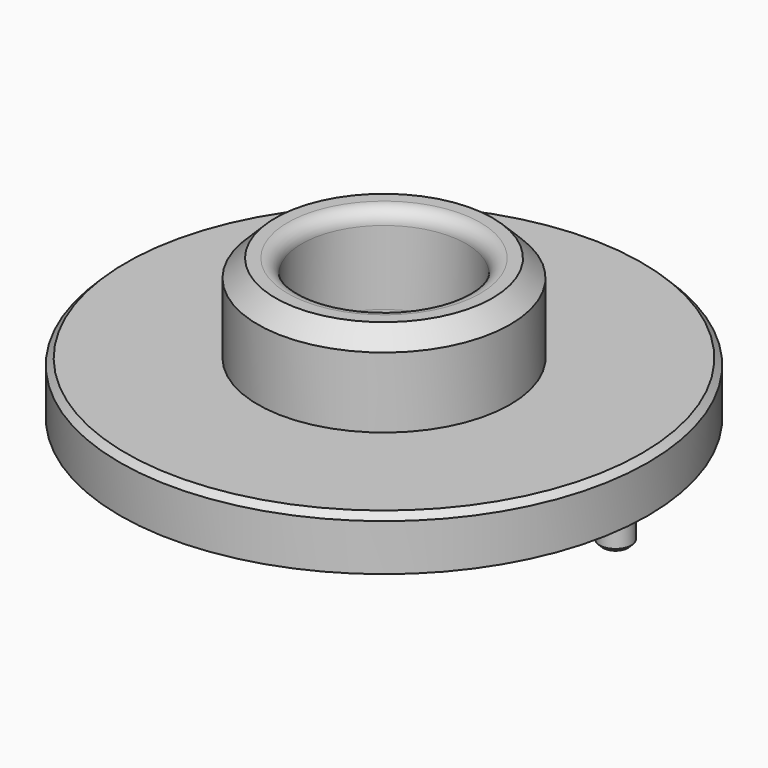
from build123d import *

# Parameters (mm, degrees)
F0_R     = 38.1
F1_DEPTH = 7.62
F2_R     = 11.8491
F3_DEPTH = 7.621
F4_SIZE  = 0.889
F5_R     = 2.286
F6_DEPTH = 5.08
F7_SIZE  = 0.508
F8_R     = 18.1991
F8_R_2   = 11.8491
F9_DEPTH = 12.7
F10_R    = 2.032
F11_SIZE = 2.54


with BuildPart() as f1:
    # F0 (on Top) → F1 (new body)
    with BuildSketch(Plane.XY):
        Circle(F0_R)
    extrude(amount=F1_DEPTH)

    # F2 (on face) → F3 (cut, through all)
    with BuildSketch(Plane.XY.offset(7.62)):
        Circle(F2_R)
    extrude(amount=-F3_DEPTH, mode=Mode.SUBTRACT)

    # F4
    f4_edges = [f1.edges().sort_by_distance(p)[0] for p in [
        (-38.1, 0, 7.62),
        (-11.8491, 0, 0),
    ]]
    chamfer(f4_edges, length=F4_SIZE)

    # F5 (on face) → F6 (join)
    with BuildSketch(Plane(origin=(0, 0, 0), x_dir=(1, 0, 0), z_dir=(0, 0, -1))):
        with Locations((-33.4009492, 0)):
            Circle(F5_R)
        with Locations((33.4009492, 0)):
            Circle(F5_R)
    extrude(amount=F6_DEPTH)

    # F7
    f7_edges = [f1.edges().sort_by_distance(p)[0] for p in [
        (31.114949, 0, -5.08),
        (-35.686949, 0, -5.08),
    ]]
    chamfer(f7_edges, length=F7_SIZE)

    # F8 (on face) → F9 (join)
    with BuildSketch(Plane.XY.offset(7.62)):
        Circle(F8_R)
        Circle(F8_R_2, mode=Mode.SUBTRACT)
    extrude(amount=F9_DEPTH)

    # F10
    f10_edges = [f1.edges().sort_by_distance(p)[0] for p in [
        (-11.8491, 0, 7.62),
        (11.8491, 0, 4.2545),
        (-11.8491, 0, 0.889),
        (11.8491, 0, 13.97),
        (-11.8491, 0, 20.32),
    ]]
    fillet(f10_edges, radius=F10_R)

    # F11
    f11_edges = [f1.edges().sort_by_distance(p)[0] for p in [
        (-18.1991, 0, 20.32),
    ]]
    chamfer(f11_edges, length=F11_SIZE)


solid = f1.part
